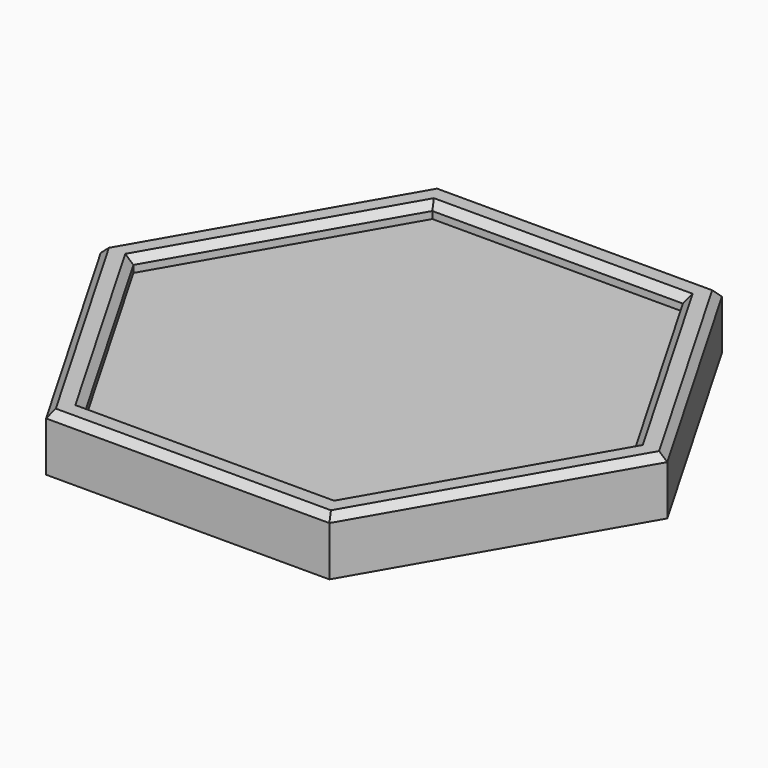
from build123d import *

# Parameters (mm, degrees)
PAD_DEPTH    = 2
POCKET_DEPTH = 0.5
CHAMFER_SIZE = 0.25


with BuildPart() as part:
    # Sketch → Pad (new body)
    with BuildSketch(Plane.XY):
        Polygon((-5, -8.660254), (5, -8.660254), (10, 0), (5, 8.660254), (-5, 8.660254), (-10, 0), align=None)
    extrude(amount=PAD_DEPTH)

    # Sketch001 → Pocket (cut)
    with BuildSketch(Plane.XY.offset(2)):
        Polygon((4.42265, -7.660254), (8.845299, 0), (4.42265, 7.660254), (-4.42265, 7.660254), (-8.845299, 0), (-4.42265, -7.660254), align=None)
    extrude(amount=-POCKET_DEPTH, mode=Mode.SUBTRACT)

    # Chamfer
    chamfer_edges = [part.edges().sort_by_distance(p)[0] for p in [
        (0, -8.660254, 2),
        (-7.5, -4.330127, 2),
        (7.5, -4.330127, 2),
        (-7.5, 4.330127, 2),
        (7.5, 4.330127, 2),
        (0, 8.660254, 2),
        (0, -7.660254, 2),
        (-6.633975, -3.830127, 2),
        (-6.633975, 3.830127, 2),
        (0, 7.660254, 2),
        (6.633975, 3.830127, 2),
        (6.633975, -3.830127, 2),
    ]]
    chamfer(chamfer_edges, length=CHAMFER_SIZE)


solid = part.part
